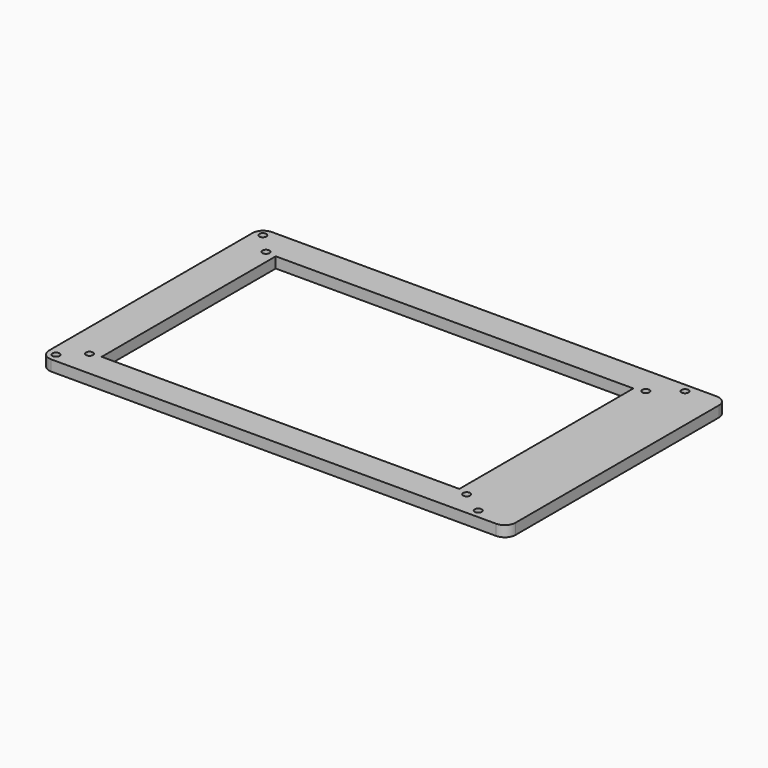
from build123d import *

# Parameters (mm, degrees)
F0_W     = 204
F0_H     = 128
F0_W_2   = 166
F0_H_2   = 101
F0_W_3   = 12.5
F1_DEPTH = 5
F2_D     = 3.3
F4_D     = 3.3
F5_R     = 5


with BuildPart() as f1:
    # F0 (on Top) → F1 (new body)
    with BuildSketch(Plane.XY):
        with Locations((1, 0.5)):
            Rectangle(F0_W, F0_H)
        Rectangle(F0_W_2, F0_H_2, mode=Mode.SUBTRACT)
        with Locations((109.25, 0.5)):
            Rectangle(F0_W_3, F0_H)
    extrude(amount=F1_DEPTH)

    # F2 (through all)
    with Locations(Plane(origin=(0, 0, 0), x_dir=(1, 0, 0), z_dir=(0, 0, -1))):
        with Locations((-97, -60.5), (99, -60.5), (99, 59.5), (-97, 59.5)):
            Hole(F2_D / 2)

    # F4 (through all)
    with Locations(Plane.XY.offset(5)):
        with Locations((-87.9689130953, 51.0566890079), (87.853647545, 51.7008769748), (87.7295576794, -52.1221233483), (-87.9235801444, -51.3708378505)):
            Hole(F4_D / 2)

    # F5
    f5_edges = [f1.edges().sort_by_distance(p)[0] for p in [
        (-101, 64.5, 2.5),
        (115.5, 64.5, 2.5),
        (115.5, -63.5, 2.5),
        (-101, -63.5, 2.5),
    ]]
    fillet(f5_edges, radius=F5_R)


solid = f1.part
